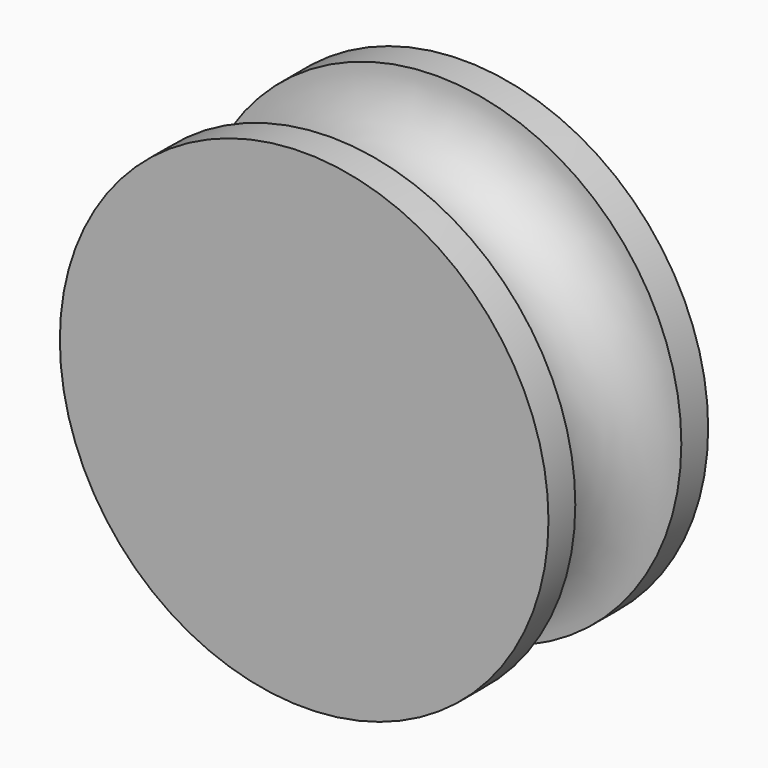
from build123d import *

# Parameters (mm, degrees)
F0_R     = 9.7155
F1_DEPTH = 3.96875
F2_R     = 2.63525


with BuildPart() as f1:
    # F0 (on Front) → F1 (new body, symmetric)
    with BuildSketch(Plane.XZ):
        Circle(F0_R)
    extrude(amount=F1_DEPTH, both=True)

    # F2 (on Right) → F3 (revolve, cut)
    with BuildSketch(Plane.YZ):
        with Locations((0, 9.7155)):
            Circle(F2_R)
    revolve(axis=Axis((0, 0, 0), (0, 1, 0)), mode=Mode.SUBTRACT)


solid = f1.part
